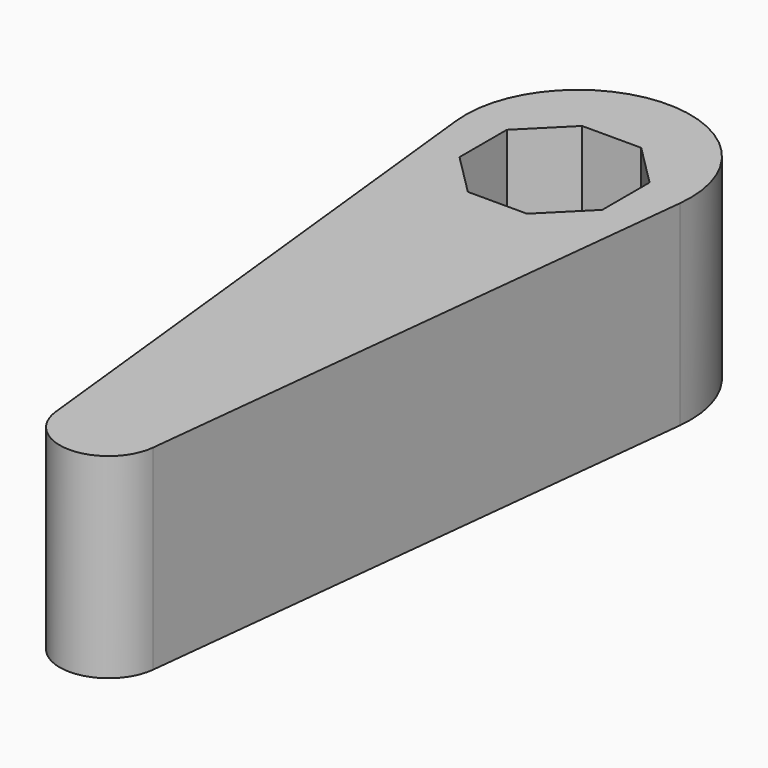
from build123d import *

# Parameters (mm, degrees)
F1_DEPTH = 5


with BuildPart() as f1:
    # F0 (on Top) → F1 (new body, symmetric)
    with BuildSketch(Plane.XY):
        with BuildLine():
            Line((2.485286409, -28.7701203017), (5.7161757166, 0.877792665))
            ThreePointArc((5.7161757166, 0.877792665), (0, 7.2507315311), (-5.7161757166, 0.877792665))
            Line((-5.7161757166, 0.877792665), (-2.485286409, -28.7701203017))
            ThreePointArc((-2.485286409, -28.7701203017), (0, -30.9992855454), (2.485286409, -28.7701203017))
        make_face()
        Polygon((1.5118795027, 3.65), (3.65, 1.5118795027), (3.65, -1.5118795027), (1.5118795027, -3.65), (-1.5118795027, -3.65), (-3.65, -1.5118795027), (-3.65, 1.5118795027), (-1.5118795027, 3.65), align=None, mode=Mode.SUBTRACT)
    extrude(amount=F1_DEPTH, both=True)


solid = f1.part
